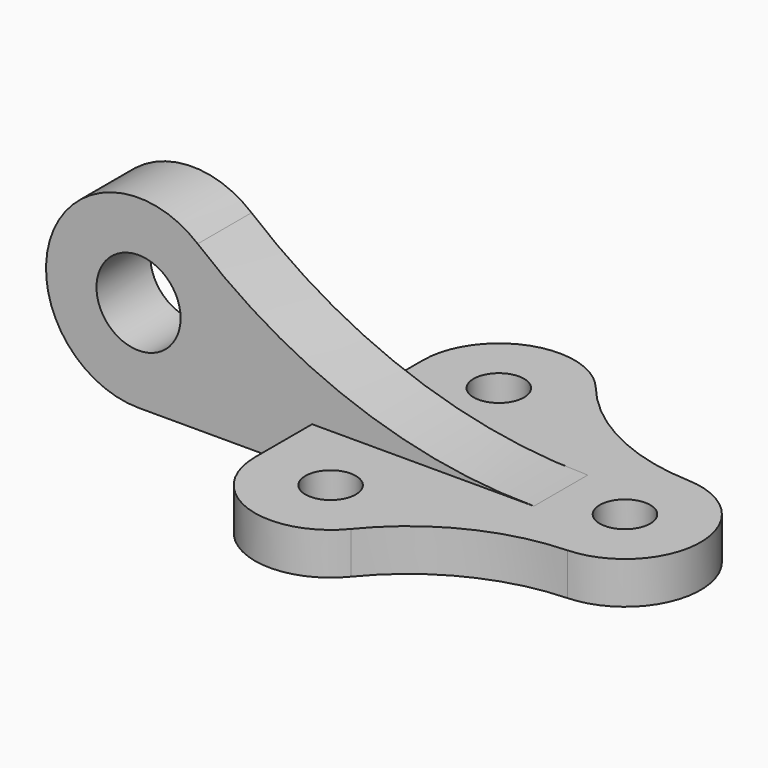
from build123d import *

# Parameters (mm, degrees)
F1_DEPTH = 10
F3_DEPTH = 8
F4_R     = 125
F6_R     = 6
F7_DEPTH = 25
F8_R     = 10
F9_DEPTH = 25


with BuildPart() as f1:
    # F0 (on Top) → F1 (new body)
    with BuildSketch(Plane.XY):
        with BuildLine():
            ThreePointArc((13.956018, -36.367918), (30.362055, -23.224109), (50.720724, -17.985565))
            ThreePointArc((50.720724, -17.985565), (68, 0), (50.720724, 17.985565))
            ThreePointArc((50.720724, 17.985565), (30.362055, 23.224109), (13.956018, 36.367918))
            ThreePointArc((13.956018, 36.367918), (-6.032896, 41.958896), (-18, 25))
            Line((-18, 25), (-18, -25))
            ThreePointArc((-18, -25), (-6.032896, -41.958896), (13.956018, -36.367918))
        make_face()
    extrude(amount=F1_DEPTH)


with BuildPart() as f3:
    # F2 (on Front) → F3 (new body, symmetric)
    with BuildSketch(Plane.XZ):
        with BuildLine():
            Line((-59.279276, 0), (50.720724, 0))
            Line((50.720724, 0), (50.720724, 10))
            Line((50.720724, 10), (-40.840187, 10))
            ThreePointArc((-40.840187, 10), (-69.767365, 41.33908), (-59.279276, 0))
        make_face()
    extrude(amount=F3_DEPTH, both=True)

    # F4
    f4_edges = [f3.edges().sort_by_distance(p)[0] for p in [
        (-40.840187, 0, 10),
    ]]
    fillet(f4_edges, radius=F4_R)

    # F5: union F1
    add(f1.part)

    # F6 (on face) → F7 (cut)
    with BuildSketch(Plane.XY.offset(10)):
        with Locations((0, 25)):
            Circle(F6_R)
        with Locations((0, -25)):
            Circle(F6_R)
        with Locations((50, 0)):
            Circle(F6_R)
    extrude(amount=-F7_DEPTH, mode=Mode.SUBTRACT)

    # F8 (on face) → F9 (cut)
    with BuildSketch(Plane.XZ.offset(8)):
        with Locations((-59.279276, 22)):
            Circle(F8_R)
    extrude(amount=-F9_DEPTH, mode=Mode.SUBTRACT)


solid = f3.part
